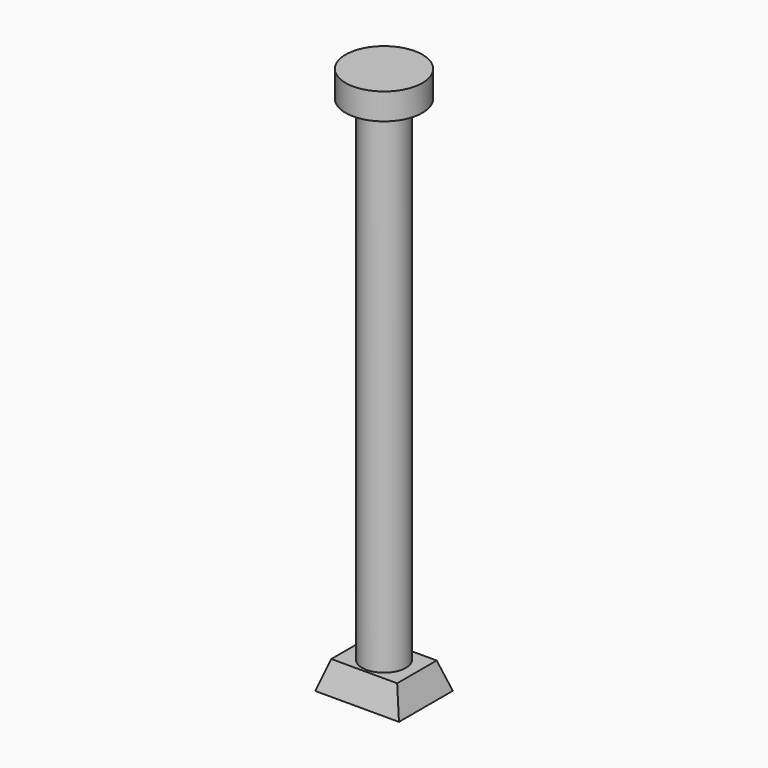
from build123d import *

# Parameters (mm, degrees)
F0_R     = 20
F1_DEPTH = 450
F2_R     = 35
F3_DEPTH = 24
F4_W     = 60
F4_H     = 45
F5_DEPTH = 25
F5_TAPER = -18.1


with BuildPart() as f1:
    # F0 (on Top) → F1 (new body)
    with BuildSketch(Plane.XY):
        Circle(F0_R)
    extrude(amount=F1_DEPTH)

    # F2 (on face) → F3 (join)
    with BuildSketch(Plane.XY.offset(450)):
        Circle(F2_R)
    extrude(amount=F3_DEPTH)

    # F4 (on Top) → F5 (join)
    with BuildSketch(Plane.XY):
        Rectangle(F4_W, F4_H)
    extrude(amount=-F5_DEPTH, taper=F5_TAPER)


solid = f1.part
